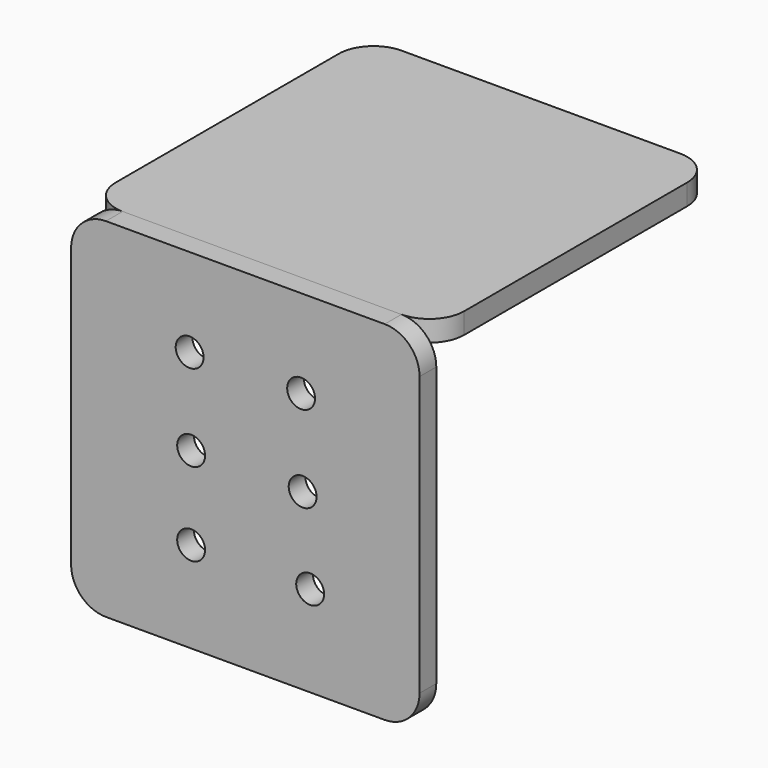
from build123d import *

# Parameters (mm, degrees)
F0_W     = 50
F0_H     = 50
F0_R     = 2
F1_DEPTH = 1.5
F2_R     = 5
F4_DEPTH = 50
F5_R     = 5
F6_R     = 2
F7_DEPTH = 1.5


with BuildPart() as f1:
    # F0 (on Front) → F1 (new body, symmetric)
    with BuildSketch(Plane.XZ):
        Rectangle(F0_W, F0_H)
        with Locations((-7.7768438496, -11.9301211089)):
            Circle(F0_R, mode=Mode.SUBTRACT)
        with Locations((9.3013007731, -11.9514685776)):
            Circle(F0_R, mode=Mode.SUBTRACT)
        with Locations((-7.7768452466, 0)):
            Circle(F0_R, mode=Mode.SUBTRACT)
        with Locations((-7.9928263848, 12.349060374)):
            Circle(F0_R, mode=Mode.SUBTRACT)
        with Locations((8.2231547534, 0)):
            Circle(F0_R, mode=Mode.SUBTRACT)
        with Locations((8.0033230286, 12.349060374)):
            Circle(F0_R, mode=Mode.SUBTRACT)
    extrude(amount=F1_DEPTH, both=True)

    # F2
    f2_edges = [f1.edges().sort_by_distance(p)[0] for p in [
        (-25, 0, 25),
        (25, 0, 25),
        (25, 0, -25),
        (-25, 0, -25),
    ]]
    fillet(f2_edges, radius=F2_R)

    # F6 (on Top) → F7 (cut, symmetric)
    with BuildSketch(Plane.XY):
        with Locations((-8.2328032677, 35.5820458521)):
            Circle(F6_R)
        with Locations((8.3375177012, 35.2487143148)):
            Circle(F6_R)
        with Locations((8.3375177012, 15.2487143148)):
            Circle(F6_R)
        with Locations((0, 25.2487143148)):
            Circle(F6_R)
        with Locations((-8.2328032677, 15.2487143148)):
            Circle(F6_R)
    extrude(amount=F7_DEPTH, both=True, mode=Mode.SUBTRACT)


with BuildPart() as f4:
    # F3 (on face) → F4 (new body)
    with BuildSketch(Plane(origin=(0, 1.5, 0), x_dir=(-1, 0, 0), z_dir=(0, 1, 0))):
        Polygon((25, 25), (-25, 25), (-25, 22), (0, 22), (25, 22), align=None)
    extrude(amount=F4_DEPTH)

    # F5
    f5_edges = [f4.edges().sort_by_distance(p)[0] for p in [
        (25, 1.5, 23.5),
        (-25, 1.5, 23.5),
        (25, 51.5, 23.5),
        (-25, 51.5, 23.5),
    ]]
    fillet(f5_edges, radius=F5_R)


solid = Compound([f1.part, f4.part])
